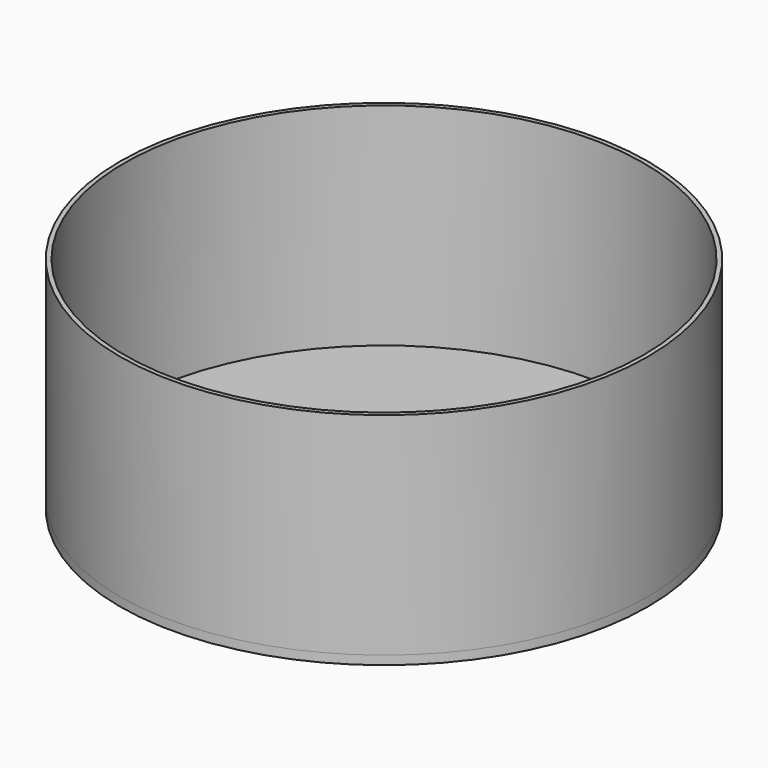
from build123d import *

# Parameters (mm, degrees)
F0_W     = 30
F0_H     = 1
F2_R     = 30
F2_R_2   = 29.5
F3_DEPTH = 24


with BuildPart() as f1:
    # F0 (on Front) → F1 (revolve)
    with BuildSketch(Plane.XZ):
        with Locations((15, -9.90305)):
            Rectangle(F0_W, F0_H)
    revolve(axis=Axis((0, 0, 2.09695), (0, 0, 1)))

    # F2 (on face) → F3 (join)
    with BuildSketch(Plane.XY.offset(-9.40305)):
        Circle(F2_R)
        Circle(F2_R_2, mode=Mode.SUBTRACT)
    extrude(amount=F3_DEPTH)


solid = f1.part
